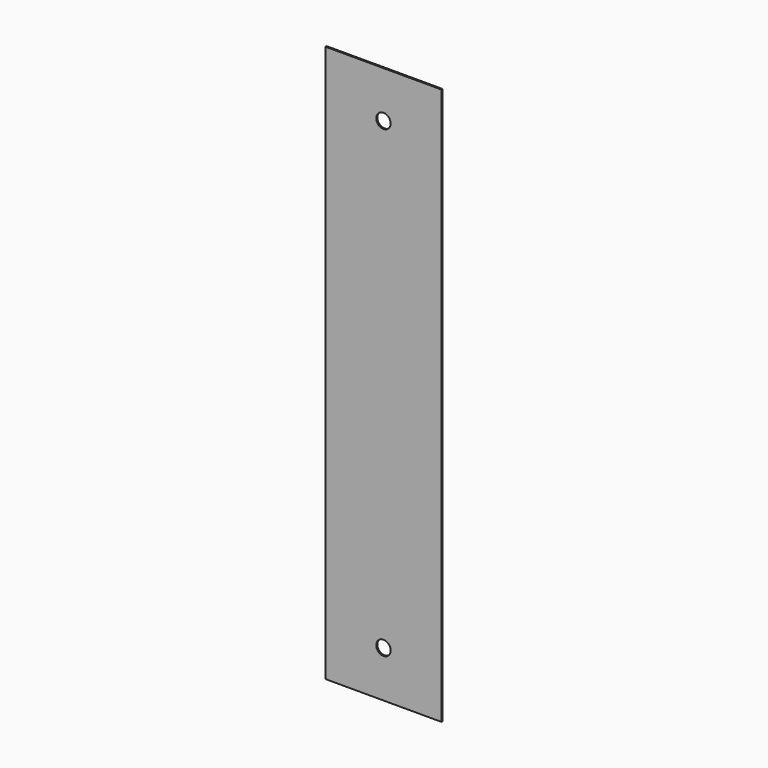
from build123d import *

# Parameters (mm, degrees)
F0_W     = 63.5
F0_H     = 304.8
F1_DEPTH = 0.762
F2_R     = 3.937
F3_DEPTH = 12.7


with BuildPart() as f1:
    # F0 (on Front) → F1 (new body)
    with BuildSketch(Plane.XZ):
        Rectangle(F0_W, F0_H)
    extrude(amount=F1_DEPTH)

    # F2 (on Front) → F3 (cut, symmetric)
    with BuildSketch(Plane.XZ):
        with Locations((0, 127)):
            Circle(F2_R)
        with Locations((0, -127)):
            Circle(F2_R)
    extrude(amount=F3_DEPTH, both=True, mode=Mode.SUBTRACT)


solid = f1.part
